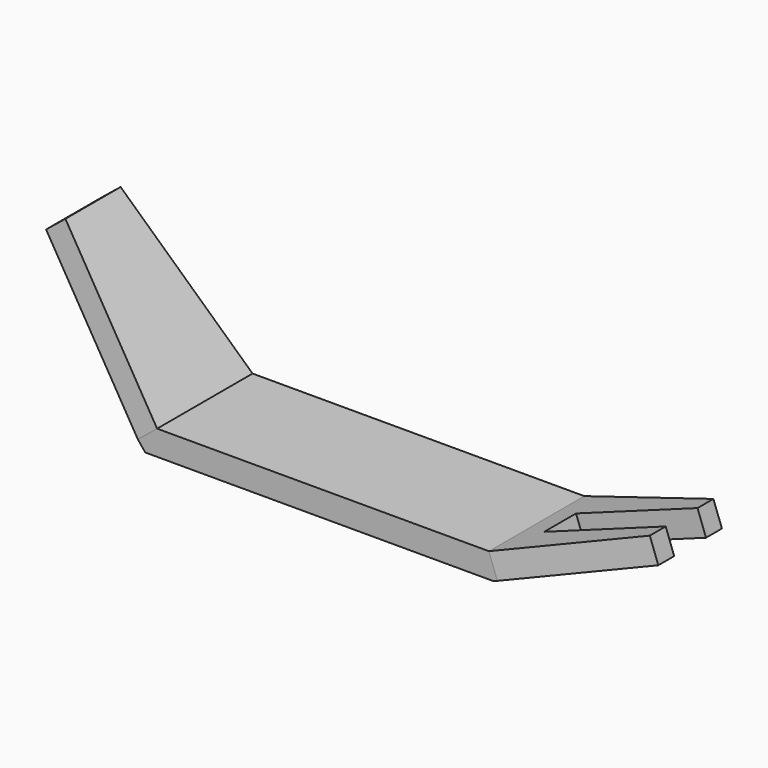
from build123d import *

# Parameters (mm, degrees)
F1_DEPTH = 60
F3_DEPTH = 25
F5_DEPTH = 25


with BuildPart() as f1:
    # F0 (on Front) → F1 (new body, symmetric)
    with BuildSketch(Plane.XZ):
        Polygon((-120, 148.1876587842), (0, 0), (350, 0), (500, 54.5955351399), (491.4494964169, 78.0878506596), (345.5918254823, 25), (11.9243883175, 25), (-100.5713509636, 163.9206685605), align=None)
    extrude(amount=F1_DEPTH, both=True)

    # F2 (on face) → F3 (cut)
    with BuildSketch(Plane(origin=(19.4286490364, 0, 15.7330097762), x_dir=(0, 1, 0), z_dir=(0.7771459615, 0, 0.629320391))):
        Polygon((-60, 190.6818874879), (-60, 11.9243883175), (-34.7125157714, 190.6818874879), align=None)
        Polygon((34.7125157714, 190.6818874879), (60, 11.9243883175), (60, 190.6818874879), align=None)
    extrude(amount=-F3_DEPTH, mode=Mode.SUBTRACT)

    # F4 (on face) → F5 (cut)
    with BuildSketch(Plane(origin=(32.391718871, 0, -88.9955161755), x_dir=(0.9396926208, 0, 0.3420201433), z_dir=(-0.3420201433, 0, 0.9396926208))):
        Polygon((488.5190831465, 60), (333.3005917928, 60), (488.5190831465, 40), align=None)
        Polygon((358.5190831465, -20), (488.5190831465, -20), (488.5190831465, 20), (358.5190831465, 20), (358.5190831465, 0), align=None)
        Polygon((488.5190831465, -40), (333.3005917928, -60), (488.5190831465, -60), align=None)
    extrude(amount=-F5_DEPTH, mode=Mode.SUBTRACT)


solid = f1.part
